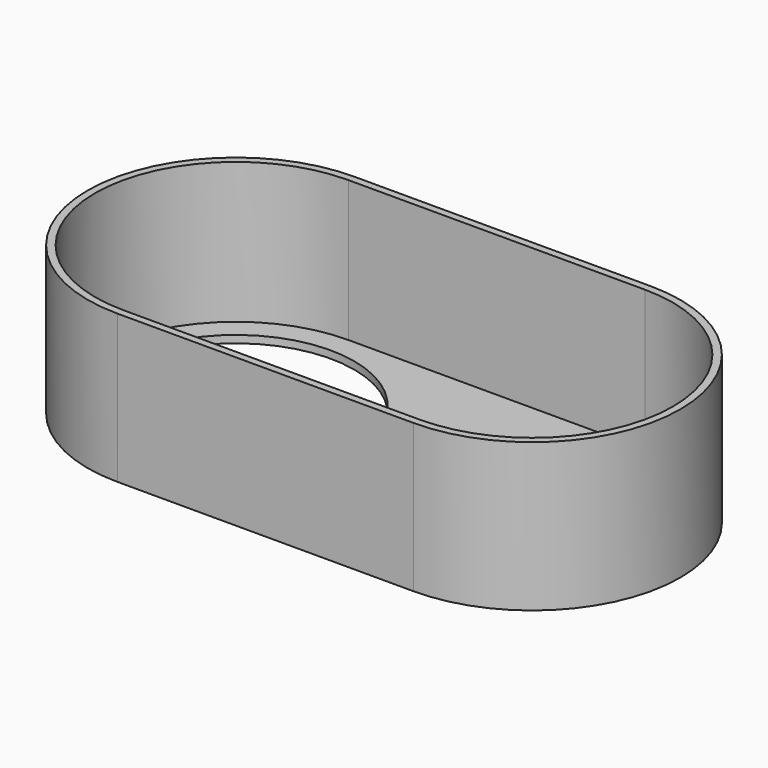
from build123d import *

# Parameters (mm, degrees)
F1_DEPTH = 50
F2_T     = -2.5
F3_R     = 40
F4_DEPTH = 25


with BuildPart() as f1:
    # F0 (on Top) → F1 (new body)
    with BuildSketch(Plane.XY):
        with BuildLine():
            Line((50, 50), (-50, 50))
            ThreePointArc((-50, 50), (-100, 0), (-50, -50))
            Line((-50, -50), (50, -50))
            ThreePointArc((50, -50), (100, 0), (50, 50))
        make_face()
    extrude(amount=F1_DEPTH)

    # F2
    f2_openings = [f1.faces().sort_by_distance(p)[0] for p in [
        (0, 0, 50),
    ]]
    offset(amount=F2_T, openings=f2_openings)

    # F3 (on face) → F4 (cut)
    with BuildSketch(Plane.XY.offset(2.5)):
        with Locations((-50, 0)):
            Circle(F3_R)
        with Locations((50, 0)):
            Circle(F3_R)
    extrude(amount=-F4_DEPTH, mode=Mode.SUBTRACT)


solid = f1.part
